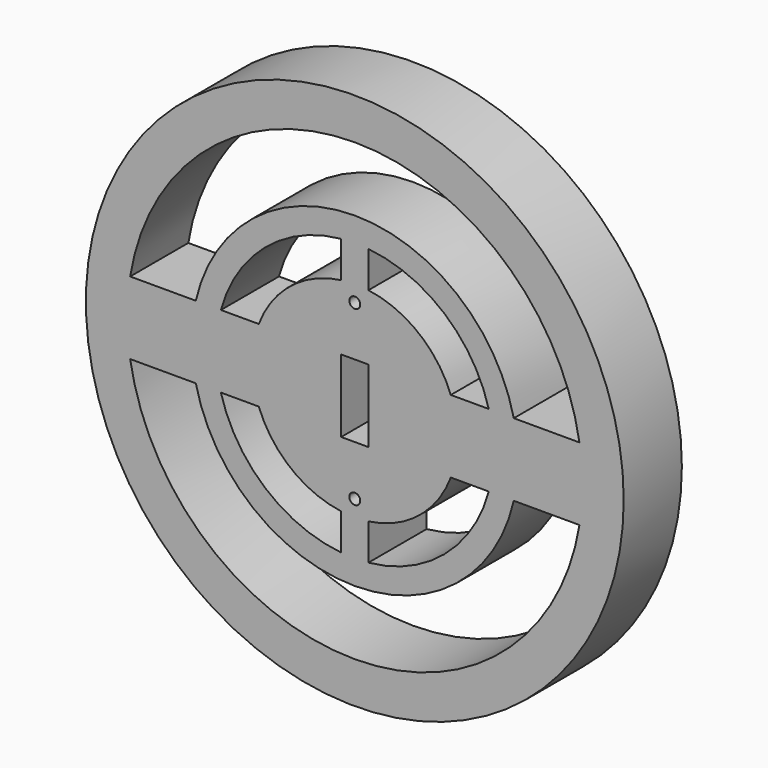
from build123d import *

# Parameters (mm, degrees)
F0_R     = 93.98
F1_DEPTH = 25.4
F2_W     = 9.525
F2_H     = 25.4
F2_R     = 1.905
F3_DEPTH = 25.401
F5_DEPTH = 25.401
F7_DEPTH = 25.401


with BuildPart() as f1:
    # F0 (on Front) → F1 (new body)
    with BuildSketch(Plane.XZ):
        Circle(F0_R)
    extrude(amount=F1_DEPTH)

    # F2 (on Front) → F3 (cut, through all)
    with BuildSketch(Plane.XZ):
        Rectangle(F2_W, F2_H)
        with Locations((0, 30.1752)):
            Circle(F2_R)
        with Locations((0, -30.1752)):
            Circle(F2_R)
    extrude(amount=F3_DEPTH, mode=Mode.SUBTRACT)

    # F4 (on face) → F5 (cut, through all)
    with BuildSketch(Plane.XZ.offset(25.4)):
        with BuildLine():
            ThreePointArc((-55.5625, 12.7), (0, 56.995451), (55.5625, 12.7))
            Line((55.5625, 12.7), (78.498342, 12.7))
            ThreePointArc((78.498342, 12.7), (0, 79.519053), (-78.498342, 12.7))
            Line((-78.498342, 12.7), (-55.5625, 12.7))
        make_face()
        with BuildLine():
            Line((78.498342, -12.7), (55.5625, -12.7))
            ThreePointArc((55.5625, -12.7), (0, -56.995451), (-55.5625, -12.7))
            Line((-55.5625, -12.7), (-78.498342, -12.7))
            ThreePointArc((-78.498342, -12.7), (0, -79.519053), (78.498342, -12.7))
        make_face()
    extrude(amount=-F5_DEPTH, mode=Mode.SUBTRACT)

    # F6 (on face) → F7 (cut, through all)
    with BuildSketch(Plane.XZ.offset(25.4)):
        with BuildLine():
            ThreePointArc((-33.554508, 12.7), (-22.309038, 28.098075), (-4.7625, 35.56))
            Line((-4.7625, 35.56), (-4.7625, 48.26))
            ThreePointArc((-4.7625, 48.26), (-31.318534, 37.025106), (-46.801912, 12.7))
            Line((-46.801912, 12.7), (-33.554508, 12.7))
        make_face()
        with BuildLine():
            Line((4.7625, 48.26), (4.7625, 35.56))
            ThreePointArc((4.7625, 35.56), (22.309038, 28.098075), (33.554508, 12.7))
            Line((33.554508, 12.7), (46.801912, 12.7))
            ThreePointArc((46.801912, 12.7), (31.318534, 37.025106), (4.7625, 48.26))
        make_face()
        with BuildLine():
            ThreePointArc((4.7625, -48.26), (31.318534, -37.025106), (46.801912, -12.7))
            Line((46.801912, -12.7), (33.554508, -12.7))
            ThreePointArc((33.554508, -12.7), (22.309038, -28.098075), (4.7625, -35.56))
            Line((4.7625, -35.56), (4.7625, -48.26))
        make_face()
        with BuildLine():
            Line((-4.7625, -48.26), (-4.7625, -35.56))
            ThreePointArc((-4.7625, -35.56), (-22.309038, -28.098075), (-33.554508, -12.7))
            Line((-33.554508, -12.7), (-46.801912, -12.7))
            ThreePointArc((-46.801912, -12.7), (-31.318534, -37.025106), (-4.7625, -48.26))
        make_face()
    extrude(amount=-F7_DEPTH, mode=Mode.SUBTRACT)


solid = f1.part
